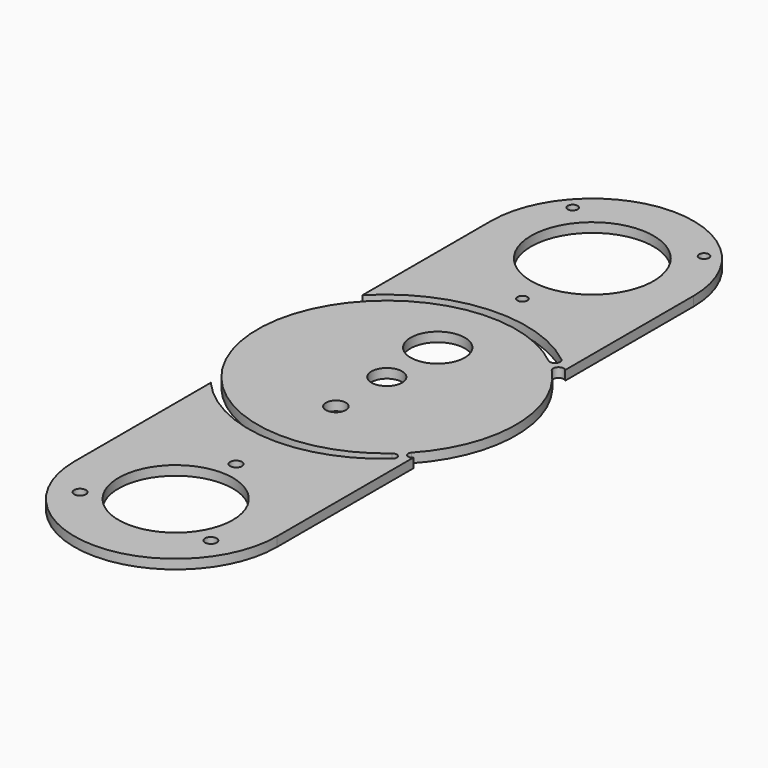
from build123d import *

# Parameters (mm, degrees)
SKETCH003_R                = 54.85
SKETCH003_R_2              = 11.5
SKETCH003_R_3              = 6.5
SKETCH003_R_4              = 4.25
EXTRUDE010_DEPTH           = 4
EXTRUDE011_DEPTH           = 4
SKETCH_R                   = 24.25
SKETCH_R_2                 = 2.5
EXTRUDE008_DEPTH           = 4
SKETCH001_R                = 26
SKETCH001_R_2              = 2.1
EXTRUDE007_DEPTH           = 4
EXTRUDE007_PLACEMENT_ANGLE = 180


with BuildPart() as cap001:
    # Sketch003 (on Face2 of Tube) → Extrude010 (new body)
    with BuildSketch(Plane.XY.offset(150)):
        Circle(SKETCH003_R)
        with Locations((0, 27)):
            Circle(SKETCH003_R_2, mode=Mode.SUBTRACT)
        Circle(SKETCH003_R_3, mode=Mode.SUBTRACT)
        with Locations((0, -27)):
            Circle(SKETCH003_R_4, mode=Mode.SUBTRACT)
    extrude(amount=EXTRUDE010_DEPTH)


with BuildPart() as cap001_1:
    # Extrude010 placement: moved
    add(cap001.part.moved(Location((190, 0, -150))))


with BuildPart() as fusion:
    # Sketch005 → Extrude011 (new body)
    with BuildSketch(Plane.XY):
        with BuildLine():
            ThreePointArc((233, 40.844952), (229.858715, 40.897579), (229.786368, 37.756687))
            ThreePointArc((229.786368, 37.756687), (227.249454, 40.261653), (224.555163, 42.596517))
            ThreePointArc((224.555163, 42.596517), (227.636022, 42.926115), (227.289643, 46.005133))
            ThreePointArc((233, 40.844952), (230.227647, 43.516698), (227.289643, 46.005133))
        make_face()
        with BuildLine():
            ThreePointArc((230.295506, -37.21283), (230.41557, -39.799082), (233, -39.644688))
            ThreePointArc((228.114531, -44.584093), (230.632391, -42.188696), (233, -39.644688))
            ThreePointArc((228.114531, -44.584093), (228.278175, -41.913762), (225.609951, -41.718748))
            ThreePointArc((225.609951, -41.718748), (228.01954, -39.535264), (230.295506, -37.21283))
        make_face()
    extrude(amount=EXTRUDE011_DEPTH)

    # Fusion: union Cap001
    add(cap001_1.part)


with BuildPart() as fusion001:
    # Sketch → Extrude008 (new body)
    with BuildSketch(Plane.XY):
        with BuildLine():
            ThreePointArc((-43, -37.644688), (0, -57.15), (43, -37.644688))
            Line((43, -37.644688), (43, -110))
            ThreePointArc((-43, -110), (0, -153), (43, -110))
            Line((-43, -37.644688), (-43, -110))
        make_face()
        with Locations((0, -110)):
            Circle(SKETCH_R, mode=Mode.SUBTRACT)
        with Locations((0, -77.95706)):
            Circle(SKETCH_R_2, mode=Mode.SUBTRACT)
        with Locations((-27.75, -126.02147)):
            Circle(SKETCH_R_2, mode=Mode.SUBTRACT)
        with Locations((27.75, -126.02147)):
            Circle(SKETCH_R_2, mode=Mode.SUBTRACT)
    extrude(amount=EXTRUDE008_DEPTH)


with BuildPart() as fusion001_1:
    # Extrude008 placement: moved
    add(fusion001.part.moved(Location((190, -2, 0))))

    # Fusion001: union Fusion
    add(fusion.part)


with BuildPart() as fusion002:
    # Sketch001 → Extrude007 (new body)
    with BuildSketch(Plane.XY):
        with BuildLine():
            ThreePointArc((-43, -41.844952), (0, -60), (43, -41.844952))
            Line((43, -41.844952), (43, -110))
            ThreePointArc((-43, -110), (0, -153), (43, -110))
            Line((-43, -41.844952), (-43, -110))
        make_face()
        with Locations((0, -110)):
            Circle(SKETCH001_R, mode=Mode.SUBTRACT)
        with Locations((0, -72.942541)):
            Circle(SKETCH001_R_2, mode=Mode.SUBTRACT)
        with Locations((27.875, -134.418019)):
            Circle(SKETCH001_R_2, mode=Mode.SUBTRACT)
        with Locations((-27.875, -134.418019)):
            Circle(SKETCH001_R_2, mode=Mode.SUBTRACT)
    extrude(amount=EXTRUDE007_DEPTH)


with BuildPart() as fusion002_1:
    # Extrude007 placement: moved
    add(fusion002.part.moved(Location((190, -1, 0))).rotate(Axis((190, -1, 0), (0, 0, 1)), EXTRUDE007_PLACEMENT_ANGLE))

    # Fusion002: union Fusion001
    add(fusion001_1.part)


solid = fusion002_1.part
